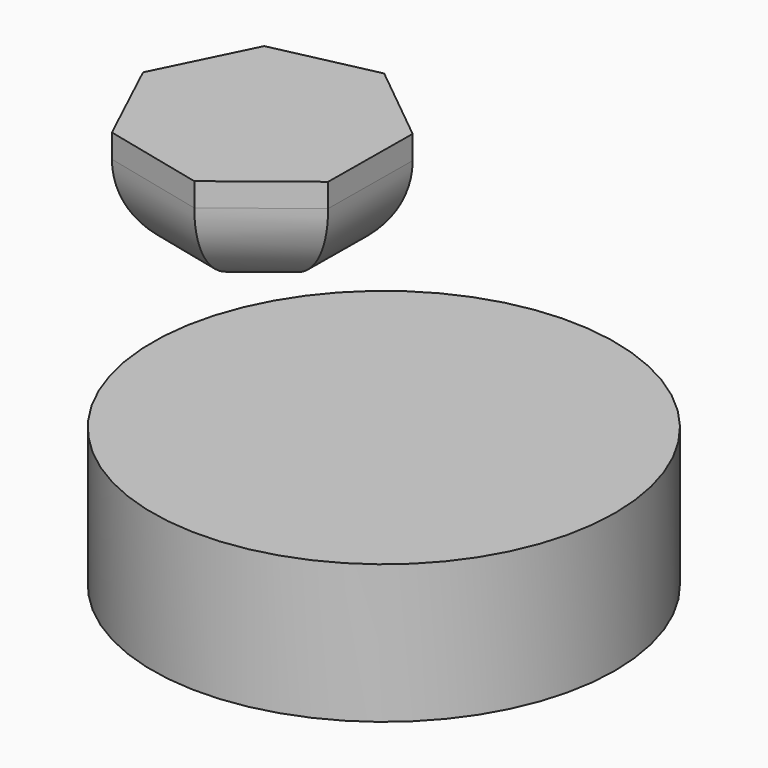
from build123d import *

# Parameters (mm, degrees)
F0_R     = 12.7
F1_DEPTH = 7.62
F3_DEPTH = 6.3754
F4_R     = 5.08


with BuildPart() as f1:
    # F0 (on Top) → F1 (new body)
    with BuildSketch(Plane.XY):
        with Locations((-86.149625, 13.866776)):
            Circle(F0_R)
    extrude(amount=F1_DEPTH)


with BuildPart() as f3:
    # F2 (on Top) → F3 (new body)
    with BuildSketch(Plane.XY):
        Polygon((-108.173678, 41.421226), (-113.780443, 40.193), (-116.315938, 35.043669), (-113.870884, 29.850783), (-108.286457, 28.524692), (-103.767843, 32.063969), (-103.717652, 37.803466), align=None)
    extrude(amount=F3_DEPTH)

    # F4
    f4_edges = [f3.edges().sort_by_distance(p)[0] for p in [
        (-110.97706, 40.807113, 0),
        (-115.048191, 37.618334, 0),
        (-115.093411, 32.447226, 0),
        (-111.07867, 29.187737, 0),
        (-106.02715, 30.29433, 0),
        (-103.742747, 34.933718, 0),
        (-105.945665, 39.612346, 0),
    ]]
    fillet(f4_edges, radius=F4_R)


solid = Compound([f1.part, f3.part])
